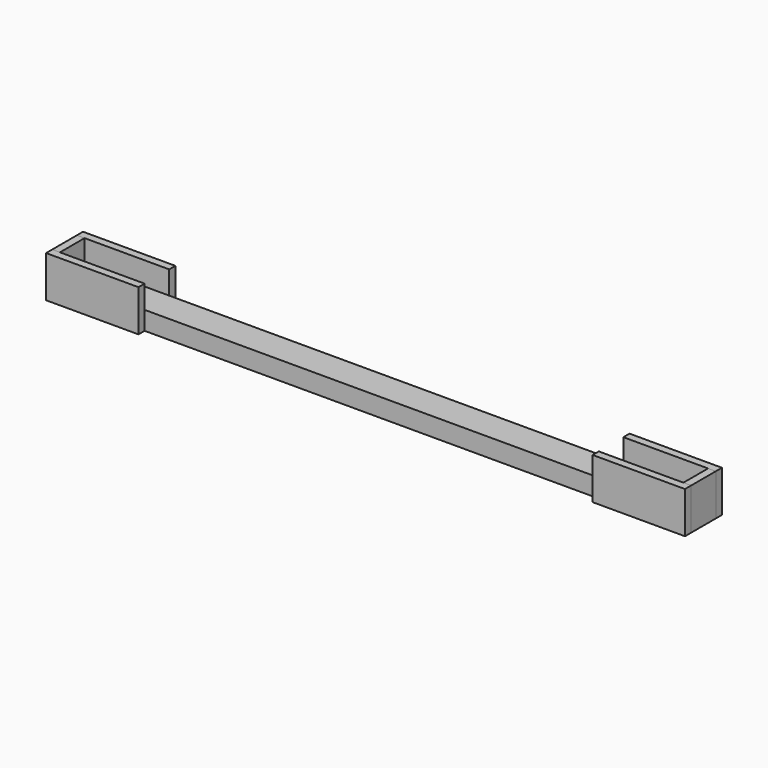
from build123d import *

# Parameters (mm, degrees)
F0_W     = 40
F0_H     = 24
F1_DEPTH = 810
F2_W     = 40
F2_H     = 54
F3_DEPTH = 10
F4_W     = 120
F4_H     = 54
F5_DEPTH = 10
F6_W     = 120
F6_H     = 54
F7_DEPTH = 10


with BuildPart() as f1:
    # F0 (on Right) → F1 (new body)
    with BuildSketch(Plane.YZ):
        with Locations((-20, 12)):
            Rectangle(F0_W, F0_H)
    extrude(amount=F1_DEPTH)


with BuildPart() as f3:
    # F2 (on face) → F3 (new body)
    with BuildSketch(Plane(origin=(0, 0, 0), x_dir=(0, -1, 0), z_dir=(-1, 0, 0))):
        with Locations((20, 27)):
            Rectangle(F2_W, F2_H)
    extrude(amount=F3_DEPTH)


with BuildPart() as f5:
    # F4 (on face) → F5 (new body)
    with BuildSketch(Plane.XZ.offset(40)):
        with Locations((50, 27)):
            Rectangle(F4_W, F4_H)
    extrude(amount=F5_DEPTH)


with BuildPart() as f7:
    # F6 (on face) → F7 (new body)
    with BuildSketch(Plane(origin=(0, 0, 0), x_dir=(-1, 0, 0), z_dir=(0, 1, 0))):
        with Locations((-50, 27)):
            Rectangle(F6_W, F6_H)
    extrude(amount=F7_DEPTH)


with BuildPart() as f10_1:
    # F10: instance of F5
    add(f5.part.mirror(Plane.YZ.offset(405)))


with BuildPart() as f10_2:
    # F10: instance of F3
    add(f3.part.mirror(Plane.YZ.offset(405)))


with BuildPart() as f10_3:
    # F10: instance of F7
    add(f7.part.mirror(Plane.YZ.offset(405)))


solid = Compound([f1.part, f3.part, f5.part, f7.part, f10_1.part, f10_2.part, f10_3.part])
